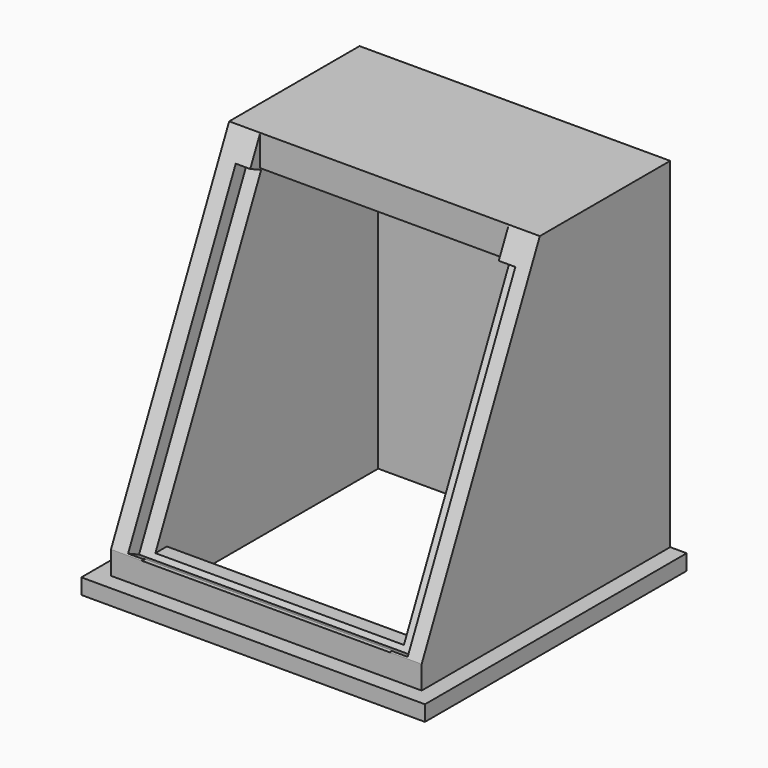
from build123d import *

# Parameters (mm, degrees)
SKETCH033_W             = 36
SKETCH033_H             = 41
SKETCH033_R             = 1.65
EXTRUDE035_DEPTH        = 2
SKETCH039_W             = 14.242
SKETCH039_H             = 2.925
EXTRUDE039_DEPTH        = 0.5
LINK007_PLACEMENT_ANGLE = 65
SKETCH040_W             = 40
SKETCH040_H             = 38
EXTRUDE041_DEPTH        = 2
EXTRUDE040_DEPTH        = 4
SKETCH041_W             = 40
SKETCH041_H             = 45.78385
EXTRUDE042_DEPTH        = 2
SKETCH042_W             = 34
SKETCH042_H             = 18.982178
EXTRUDE043_DEPTH        = 4
SKETCH043_W             = 40
SKETCH043_H             = 5
EXTRUDE044_DEPTH        = 4


with BuildPart() as extrude_displaycase_front:
    # Sketch033 → Extrude035 (new body)
    with BuildSketch(Plane.XY):
        with Locations((13.635, 13)):
            Rectangle(SKETCH033_W, SKETCH033_H)
        with Locations((3, 30.31)):
            Circle(SKETCH033_R, mode=Mode.SUBTRACT)
        with Locations((24.27, 30.31)):
            Circle(SKETCH033_R, mode=Mode.SUBTRACT)
        with Locations((3, -2)):
            Circle(SKETCH033_R, mode=Mode.SUBTRACT)
        with Locations((24.27, -2)):
            Circle(SKETCH033_R, mode=Mode.SUBTRACT)
        Polygon((27.37, 23.21), (27.37, 3.51), (-0.1, 3.51), (-0.1, 23.21), (6.514, 23.21), (6.514, 26.135), (20.756, 26.135), (20.756, 23.21), align=None, mode=Mode.SUBTRACT)
    extrude(amount=-EXTRUDE035_DEPTH)


with BuildPart() as fusion_displaycase_front001:
    # Sketch039 → Extrude039 (new body)
    with BuildSketch(Plane.XY):
        with Locations((13.635, 24.6725)):
            Rectangle(SKETCH039_W, SKETCH039_H)
    extrude(amount=-EXTRUDE039_DEPTH)

    # Fusion012: union Extrude_DisplayCase_Front
    add(extrude_displaycase_front.part)


with BuildPart() as fusion_displaycase_front001_1:
    # Link007 placement: moved
    add(fusion_displaycase_front001.part.moved(Location((6.5, 3.2, 12))).rotate(Axis((6.5, 3.2, 12), (1, 0, 0)), LINK007_PLACEMENT_ANGLE))


with BuildPart() as extrude_displaycase_bottom:
    # Sketch040 → Extrude041 (new body)
    with BuildSketch(Plane.XY):
        Polygon((40, 40), (0, 40), (-2.12132, 40), (-2.12132, -2.12132), (42.12132, -2.12132), (42.12132, 40), align=None)
        with Locations((20, 19)):
            Rectangle(SKETCH040_W, SKETCH040_H, mode=Mode.SUBTRACT)
    extrude(amount=EXTRUDE041_DEPTH)


with BuildPart() as extrude_displaycase_side:
    # Sketch032 → Extrude040 (new body)
    with BuildSketch(Plane.YZ):
        Polygon((0, 5), (19.017822, 45.78385), (40, 45.78385), (40, 5), (40, 0), (0, 0), align=None)
    extrude(amount=EXTRUDE040_DEPTH)


with BuildPart() as extrude_displaycase_side001:
    # Link006 base: copy of Extrude_DisplayCase_Side
    add(extrude_displaycase_side.part)


with BuildPart() as extrude_displaycase_side001_1:
    # Link006 placement: moved
    add(extrude_displaycase_side001.part.moved(Location((36, 0, 0))))


with BuildPart() as extrude_displaycase_back:
    # Sketch041 → Extrude042 (new body)
    with BuildSketch(Plane.XZ):
        with Locations((20, 22.891925)):
            Rectangle(SKETCH041_W, SKETCH041_H)
    extrude(amount=EXTRUDE042_DEPTH)


with BuildPart() as extrude_displaycase_back_1:
    # Extrude042 placement: moved
    add(extrude_displaycase_back.part.moved(Location((0, 40, 0))))


with BuildPart() as extrude_displaycase_top:
    # Sketch042 → Extrude043 (new body)
    with BuildSketch(Plane.XY):
        with Locations((21, 28.508911)):
            Rectangle(SKETCH042_W, SKETCH042_H)
    extrude(amount=-EXTRUDE043_DEPTH)


with BuildPart() as extrude_displaycase_top_1:
    # Extrude043 placement: moved
    add(extrude_displaycase_top.part.moved(Location((0, 0, 45.78385))))


with BuildPart() as extrude_displaycase_frontbottom:
    # Sketch043 → Extrude044 (new body)
    with BuildSketch(Plane.XZ):
        with Locations((20, 2.5)):
            Rectangle(SKETCH043_W, SKETCH043_H)
    extrude(amount=-EXTRUDE044_DEPTH)


with BuildPart() as cut_displaycase:
    # Fusion013 base: copy of Extrude_DisplayCase_Side
    add(extrude_displaycase_side.part)

    # Fusion013: union Extrude_DisplayCase_Bottom, Extrude_DisplayCase_Side001, Extrude_DisplayCase_Back, Extrude_DisplayCase_Top, Extrude_DisplayCase_FrontBottom
    add(extrude_displaycase_bottom.part)
    add(extrude_displaycase_side001_1.part)
    add(extrude_displaycase_back_1.part)
    add(extrude_displaycase_top_1.part)
    add(extrude_displaycase_frontbottom.part)

    # Cut010: cut Fusion_DisplayCase_Front001
    add(fusion_displaycase_front001_1.part, mode=Mode.SUBTRACT)


with BuildPart() as cut_displaycase_1:
    # Cut010 placement: moved
    add(cut_displaycase.part.moved(Location((5, 5, 28))))


solid = cut_displaycase_1.part
